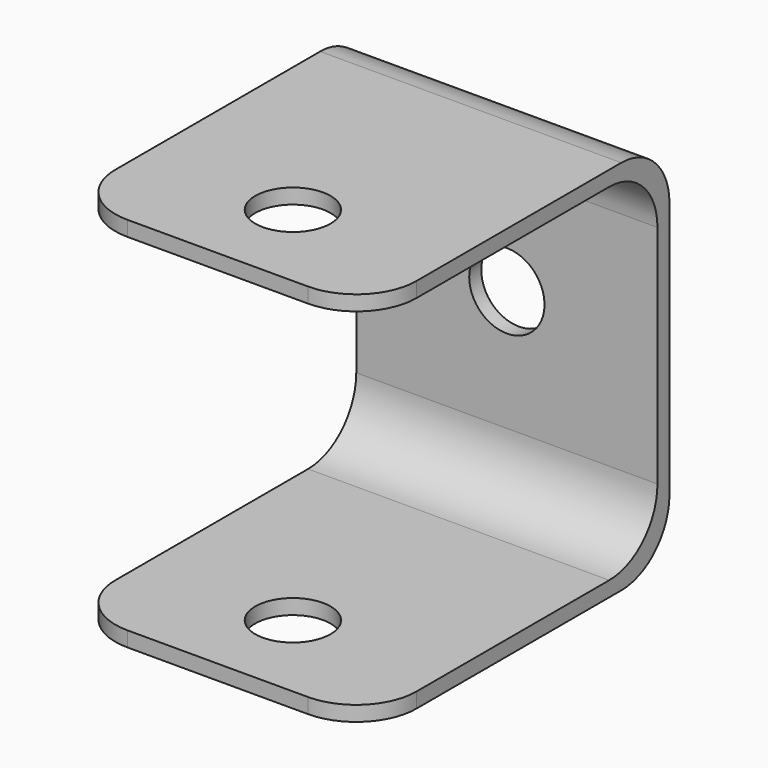
from build123d import *

# Parameters (mm, degrees)
F1_DEPTH      = 12.7
F1_DEPTH_BACK = 12.7
F2_R          = 3.175
F3_DEPTH      = 31.751
F4_R          = 5.08
F5_R          = 5.08
F6_R          = 3.175
F7_DEPTH      = 31.751


with BuildPart() as f1:
    # F0 (on Right) → F1 (new body, two sides)
    with BuildSketch(Plane.YZ) as f1_sk:
        Polygon((15.875, 15.875), (-15.875, 15.875), (-15.875, 14.605), (-14.605, 14.605), (14.605, 14.605), (14.605, -14.605), (-14.605, -14.605), (-15.875, -14.605), (-15.875, -15.875), (15.875, -15.875), align=None)
    extrude(amount=F1_DEPTH)
    extrude(f1_sk.sketch, amount=-F1_DEPTH_BACK)

    # F2 (on face) → F3 (cut, through all)
    with BuildSketch(Plane.XY.offset(15.875)):
        with Locations((0, -7.9502)):
            Circle(F2_R)
    extrude(amount=-F3_DEPTH, mode=Mode.SUBTRACT)

    # F4
    f4_edges = [f1.edges().sort_by_distance(p)[0] for p in [
        (0, 15.875, 15.875),
        (0, 15.875, -15.875),
        (0, 14.605, 14.605),
        (0, 14.605, -14.605),
    ]]
    fillet(f4_edges, radius=F4_R)

    # F5
    f5_edges = [f1.edges().sort_by_distance(p)[0] for p in [
        (12.7, -15.875, 15.24),
        (-12.7, -15.875, 15.24),
        (12.7, -15.875, -15.24),
        (-12.7, -15.875, -15.24),
    ]]
    fillet(f5_edges, radius=F5_R)

    # F6 (on face) → F7 (cut, through all)
    with BuildSketch(Plane(origin=(0, 15.875, 0), x_dir=(-1, 0, 0), z_dir=(0, 1, 0))):
        with Locations((0, 0.691243)):
            Circle(F6_R)
    extrude(amount=-F7_DEPTH, mode=Mode.SUBTRACT)


solid = f1.part
